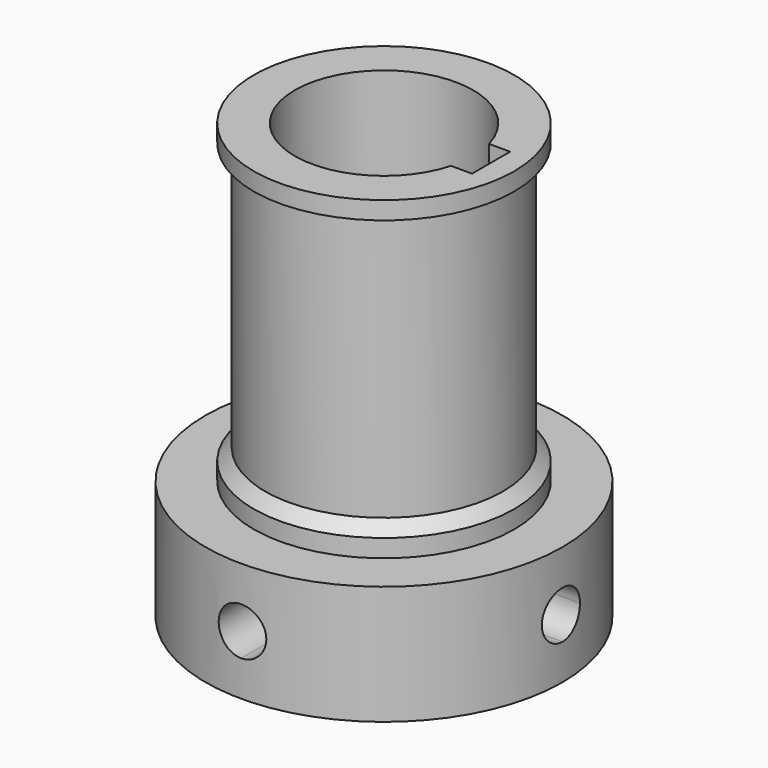
from build123d import *

# Parameters (mm, degrees)
F0_R      = 30
F1_DEPTH  = 20
F2_R      = 21.9
F3_DEPTH  = 3
F4_R      = 21.9
F5_DEPTH  = 2
F6_SIZE   = 2
F7_R      = 20
F8_DEPTH  = 45
F9_R      = 21.9
F10_DEPTH = 3
F12_DEPTH = 86.2
F14_DEPTH = 70
F16_DEPTH = 60.5


with BuildPart() as f1:
    # F0 (on Top) → F1 (new body)
    with BuildSketch(Plane.XY):
        Circle(F0_R)
    extrude(amount=F1_DEPTH)

    # F2 (on face) → F3 (join)
    with BuildSketch(Plane.XY.offset(20)):
        Circle(F2_R)
    extrude(amount=F3_DEPTH)

    # F4 (on face) → F5 (join)
    with BuildSketch(Plane.XY.offset(23)):
        Circle(F4_R)
    extrude(amount=F5_DEPTH)

    # F6
    f6_edges = [f1.edges().sort_by_distance(p)[0] for p in [
        (-21.9, 0, 25),
    ]]
    chamfer(f6_edges, length=F6_SIZE)

    # F7 (on face) → F8 (join)
    with BuildSketch(Plane.XY.offset(25)):
        Circle(F7_R)
    extrude(amount=F8_DEPTH)

    # F9 (on face) → F10 (join)
    with BuildSketch(Plane.XY.offset(70)):
        Circle(F9_R)
    extrude(amount=F10_DEPTH)

    # F11 (on face) → F12 (cut)
    with BuildSketch(Plane.XY.offset(73)):
        with BuildLine():
            Line((-15, 0), (15, 0))
            ThreePointArc((15, 0), (14.8635877974, 2.0183552187), (14.4568322948, 4))
            ThreePointArc((14.4568322948, 4), (-2.0183552187, 14.8635877974), (-15, 0))
        make_face()
        with BuildLine():
            Line((18, 0), (15, 0))
            ThreePointArc((15, 0), (14.8635877974, -2.0183552187), (14.4568322948, -4))
            Line((14.4568322948, -4), (18, -4))
            Line((18, -4), (18, 0))
        make_face()
        with BuildLine():
            ThreePointArc((14.4568322948, -4), (14.8635877974, -2.0183552187), (15, 0))
            Line((15, 0), (-15, 0))
            ThreePointArc((-15, 0), (-2.0183552187, -14.8635877974), (14.4568322948, -4))
        make_face()
        with BuildLine():
            ThreePointArc((14.4568322948, 4), (14.8635877974, 2.0183552187), (15, 0))
            Line((15, 0), (18, 0))
            Line((18, 0), (18, 4))
            Line((18, 4), (14.4568322948, 4))
        make_face()
    extrude(amount=-F12_DEPTH, mode=Mode.SUBTRACT)

    # F13 (on Front) → F14 (cut)
    with BuildSketch(Plane.XZ):
        with BuildLine():
            ThreePointArc((0, 6), (2.8284271247, 7.1715728753), (4, 10))
            ThreePointArc((4, 10), (-2.8284271247, 12.8284271247), (0, 6))
        make_face()
    extrude(amount=F14_DEPTH, mode=Mode.SUBTRACT)

    # F15 (on Right) → F16 (cut)
    with BuildSketch(Plane.YZ):
        with BuildLine():
            ThreePointArc((0, 6), (2.8284271247, 7.1715728753), (4, 10))
            ThreePointArc((4, 10), (-2.8284271247, 12.8284271247), (0, 6))
        make_face()
    extrude(amount=F16_DEPTH, mode=Mode.SUBTRACT)


solid = f1.part
